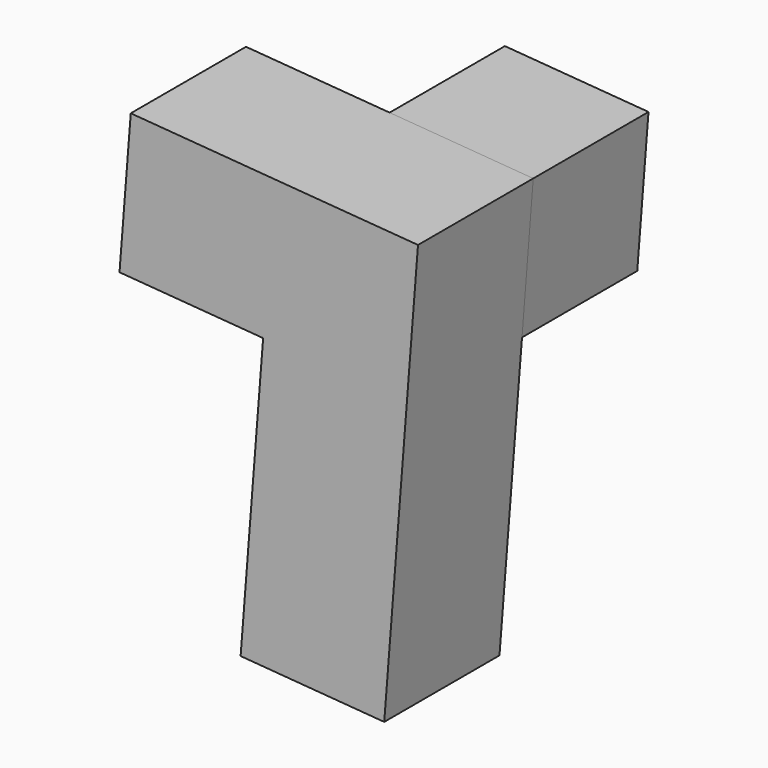
from build123d import *

# Parameters (mm, degrees)
F1_DEPTH = 19.05
F3_DEPTH = 19.05


with BuildPart() as f1:
    # F0 (on Front) → F1 (new body)
    with BuildSketch(Plane.XZ):
        Polygon((47.642084, 30.259531), (9.658525, 33.23598), (8.1703, 14.2442), (27.16208, 12.755976), (24.185631, -25.227583), (43.17741, -26.715808), align=None)
    extrude(amount=F1_DEPTH)

    # F2 (on face) → F3 (join)
    with BuildSketch(Plane.XZ):
        Polygon((46.153859, 11.267751), (47.642084, 30.259531), (28.650304, 31.747755), (27.16208, 12.755976), align=None)
    extrude(amount=-F3_DEPTH)


solid = f1.part
